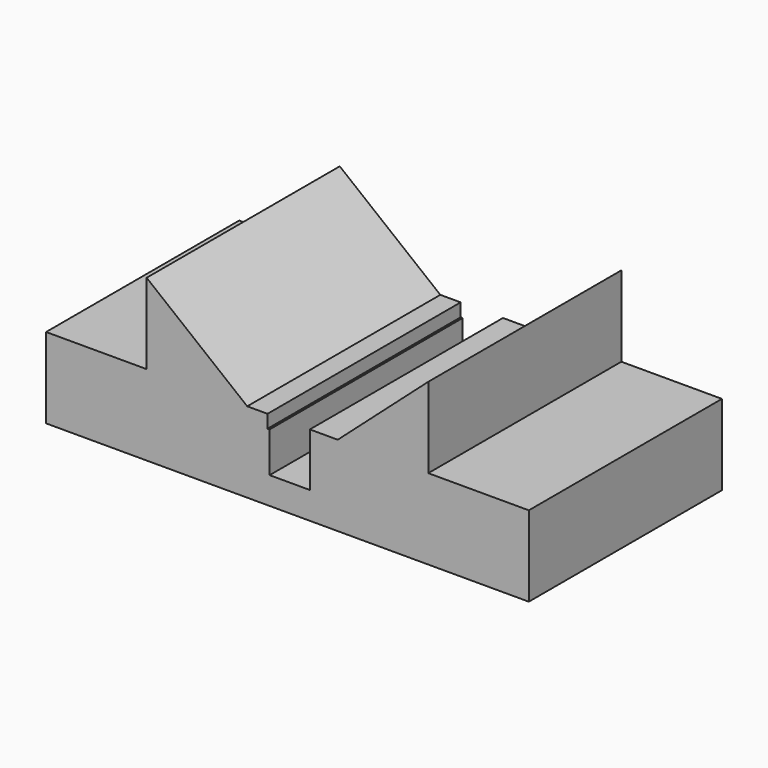
from build123d import *

# Parameters (mm, degrees)
F0_W      = 152.4
F0_H      = 50.8
F1_DEPTH  = 76.2
F2_W      = 31.75
F2_H      = 25.4
F3_DEPTH  = 76.2
F4_W      = 31.75
F4_H      = 25.4
F5_DEPTH  = 76.2
F7_DEPTH  = 76.2
F9_DEPTH  = 76.2
F10_W     = 28.575
F10_H     = 25.4
F11_DEPTH = 76.2
F12_W     = 12.7
F12_H     = 12.7
F13_DEPTH = 101.6
F15_DEPTH = 101.6


with BuildPart() as f1:
    # F0 (on Front) → F1 (new body)
    with BuildSketch(Plane.XZ):
        with Locations((-0.381002, -49.234485)):
            Rectangle(F0_W, F0_H)
    extrude(amount=-F1_DEPTH)

    # F2 (on face) → F3 (cut)
    with BuildSketch(Plane.XZ):
        with Locations((-60.706002, -36.534485)):
            Rectangle(F2_W, F2_H)
    extrude(amount=-F3_DEPTH, mode=Mode.SUBTRACT)

    # F4 (on face) → F5 (cut)
    with BuildSketch(Plane.XZ):
        with Locations((59.943998, -36.534485)):
            Rectangle(F4_W, F4_H)
    extrude(amount=-F5_DEPTH, mode=Mode.SUBTRACT)

    # F6 (on face) → F7 (cut)
    with BuildSketch(Plane.XZ):
        Polygon((-13.081002, -23.834485), (-44.831002, -23.834485), (-13.081002, -49.234485), align=None)
    extrude(amount=-F7_DEPTH, mode=Mode.SUBTRACT)

    # F8 (on face) → F9 (cut)
    with BuildSketch(Plane.XZ):
        Polygon((44.068998, -23.834485), (15.493998, -23.834485), (15.493998, -49.234485), align=None)
    extrude(amount=-F9_DEPTH, mode=Mode.SUBTRACT)

    # F10 (on face) → F11 (cut)
    with BuildSketch(Plane.XZ):
        with Locations((1.206498, -36.534485)):
            Rectangle(F10_W, F10_H)
    extrude(amount=-F11_DEPTH, mode=Mode.SUBTRACT)

    # F12 (on face) → F13 (cut)
    with BuildSketch(Plane.XZ):
        with Locations((0.338951, -59.722185)):
            Rectangle(F12_W, F12_H)
    extrude(amount=-F13_DEPTH, mode=Mode.SUBTRACT)

    # F14 (on face) → F15 (cut)
    with BuildSketch(Plane.XZ):
        Polygon((6.688951, -49.234485), (-6.6675, -49.234485), (-6.6675, -53.372185), (-6.011049, -53.372185), (6.688951, -53.372185), align=None)
    extrude(amount=-F15_DEPTH, mode=Mode.SUBTRACT)


solid = f1.part
